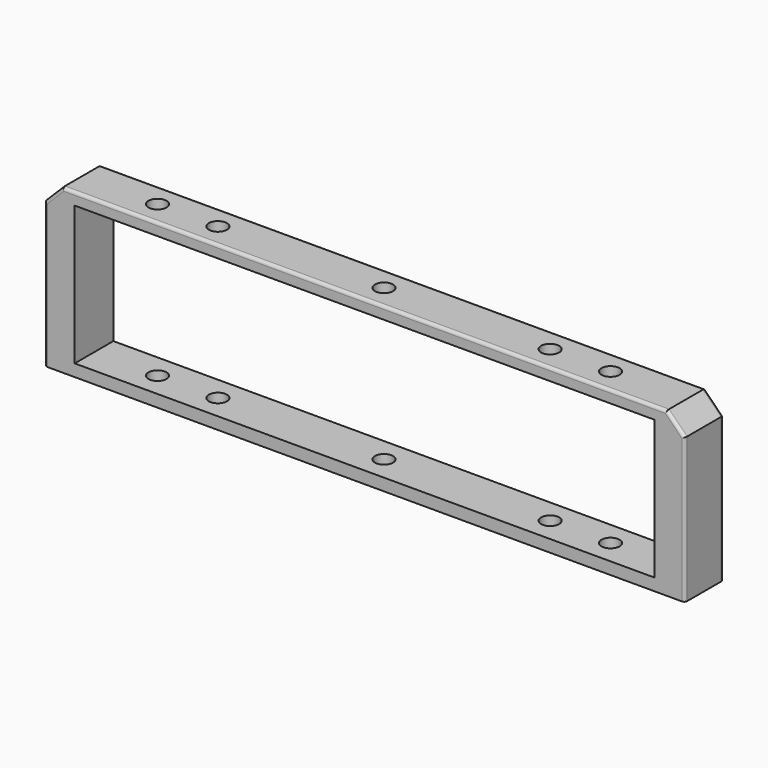
from build123d import *

# Parameters (mm, degrees)
F1_W     = 106
F1_H     = 8
F1_R     = 1.5
F2_DEPTH = 27
F3_W     = 96
F3_H     = 23
F4_DEPTH = 25
F5_SIZE  = 3
F6_R     = 0.5


with BuildPart() as f2:
    # F1 (on Top) → F2 (new body)
    with BuildSketch(Plane.XY):
        Rectangle(F1_W, F1_H)
        with Locations((-37.5, 0)):
            Circle(F1_R, mode=Mode.SUBTRACT)
        with Locations((-27.5, 0)):
            Circle(F1_R, mode=Mode.SUBTRACT)
        Circle(F1_R, mode=Mode.SUBTRACT)
        with Locations((27.5, 0)):
            Circle(F1_R, mode=Mode.SUBTRACT)
        with Locations((37.5, 0)):
            Circle(F1_R, mode=Mode.SUBTRACT)
        Rectangle(F1_W, F1_H)
        with Locations((-37.5, 0)):
            Circle(F1_R, mode=Mode.SUBTRACT)
        with Locations((-27.5, 0)):
            Circle(F1_R, mode=Mode.SUBTRACT)
        Circle(F1_R, mode=Mode.SUBTRACT)
        with Locations((27.5, 0)):
            Circle(F1_R, mode=Mode.SUBTRACT)
        with Locations((37.5, 0)):
            Circle(F1_R, mode=Mode.SUBTRACT)
        Rectangle(F1_W, F1_H)
        with Locations((-37.5, 0)):
            Circle(F1_R, mode=Mode.SUBTRACT)
        with Locations((-27.5, 0)):
            Circle(F1_R, mode=Mode.SUBTRACT)
        Circle(F1_R, mode=Mode.SUBTRACT)
        with Locations((27.5, 0)):
            Circle(F1_R, mode=Mode.SUBTRACT)
        with Locations((37.5, 0)):
            Circle(F1_R, mode=Mode.SUBTRACT)
    extrude(amount=F2_DEPTH)

    # F3 (on face) → F4 (cut)
    with BuildSketch(Plane.XZ.offset(4)):
        with Locations((0, 13.5)):
            Rectangle(F3_W, F3_H)
    extrude(amount=-F4_DEPTH, mode=Mode.SUBTRACT)

    # F5
    f5_edges = [f2.edges().sort_by_distance(p)[0] for p in [
        (-53, 0, 27),
        (53, 0, 27),
    ]]
    chamfer(f5_edges, length=F5_SIZE)

    # F6
    f6_edges = [f2.edges().sort_by_distance(p)[0] for p in [
        (0, -4, 27),
        (0, 4, 27),
        (51.5, -4, 25.5),
        (53, -4, 12),
        (51.5, 4, 25.5),
        (53, 4, 12),
        (-51.5, -4, 25.5),
        (-51.5, 4, 25.5),
        (-53, -4, 12),
        (-53, 4, 12),
    ]]
    fillet(f6_edges, radius=F6_R)


solid = f2.part
